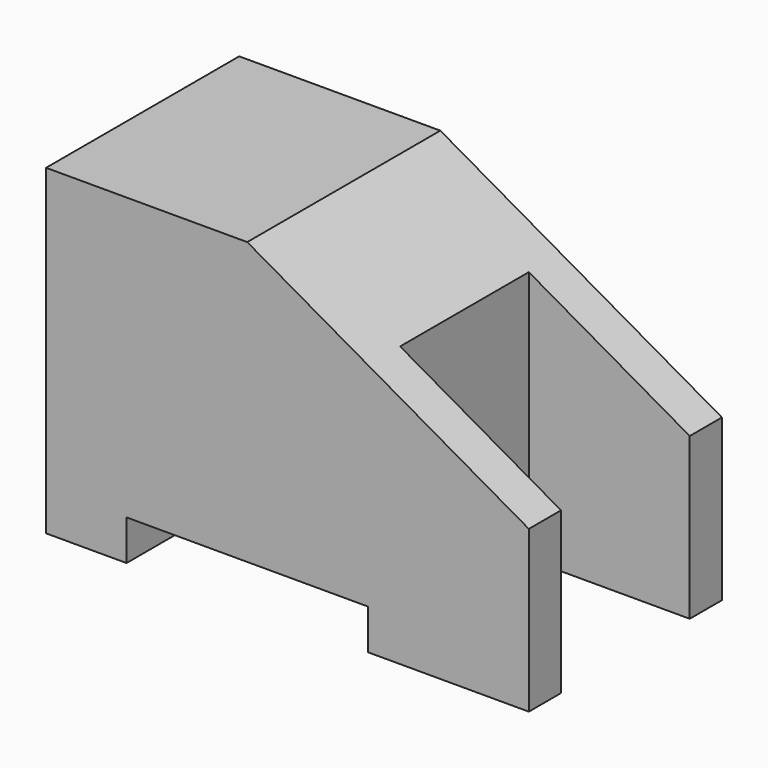
from build123d import *

# Parameters (mm, degrees)
F1_DEPTH = 15
F2_W     = 10
F2_H     = 10
F3_DEPTH = 25


with BuildPart() as f1:
    # F0 (on Front) → F1 (new body)
    with BuildSketch(Plane.XZ):
        Polygon((12.5, 0), (0, 0), (0, -20), (5, -20), (5, -17.5), (20, -17.5), (20, -20), (30, -20), (30, -10), align=None)
    extrude(amount=-F1_DEPTH)

    # F2 (on face) → F3 (cut)
    with BuildSketch(Plane.XY):
        with Locations((25, 7.5)):
            Rectangle(F2_W, F2_H)
    extrude(amount=-F3_DEPTH, mode=Mode.SUBTRACT)


solid = f1.part
